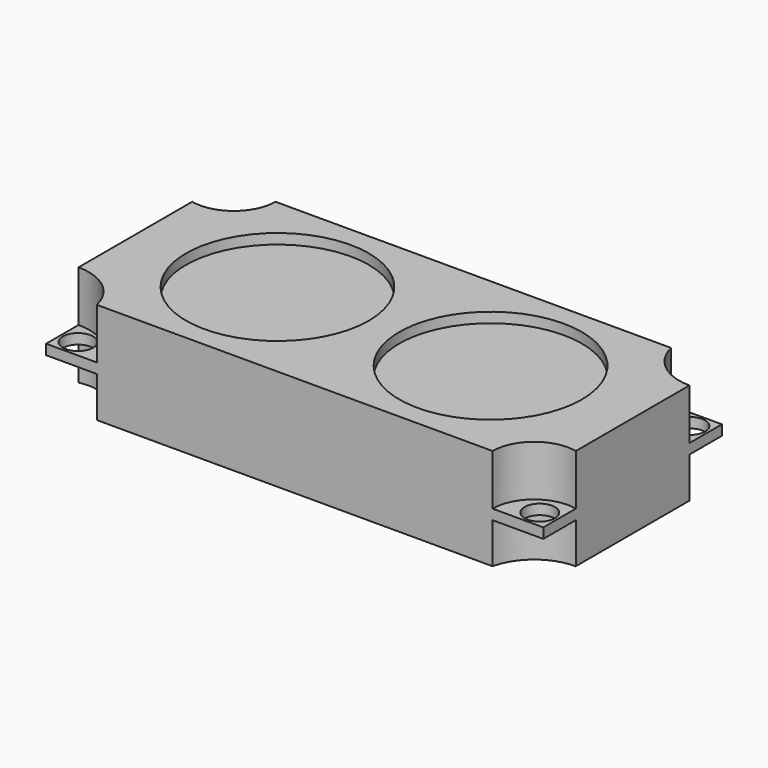
from build123d import *

# Parameters (mm, degrees)
SKETCH007_W     = 98
SKETCH007_H     = 44
PAD002_DEPTH    = 20
POCKET004_DEPTH = 10
POCKET005_DEPTH = 8
SKETCH010_R     = 3
HOLE001_DEPTH   = 25
SKETCH011_R     = 18
POCKET006_DEPTH = 2


with BuildPart() as part:
    # Sketch007 → Pad002 (new body)
    with BuildSketch(Plane.XY):
        with Locations((49, 22)):
            Rectangle(SKETCH007_W, SKETCH007_H)
    extrude(amount=PAD002_DEPTH)

    # Sketch009 (on Face6 of Pad002) → Pocket004 (cut)
    with BuildSketch(Plane.XY.offset(20)):
        with BuildLine():
            Line((0, 44), (0, 36))
            ThreePointArc((0, 36), (6.922499, 37.596876), (10, 44))
            Line((0, 44), (10, 44))
        make_face()
        with BuildLine():
            Line((0, 0), (0, 8))
            ThreePointArc((10, 0), (6.403124, 5.753905), (0, 8))
            Line((0, 0), (10, 0))
        make_face()
        with BuildLine():
            Line((98, 36), (98, 44))
            Line((98, 44), (88, 44))
            ThreePointArc((88, 44), (91.596876, 38.246095), (98, 36))
        make_face()
        with BuildLine():
            Line((88, 0), (98, 0))
            Line((98, 0), (98, 8))
            ThreePointArc((98, 8), (91.077501, 6.403124), (88, 0))
        make_face()
    extrude(amount=-POCKET004_DEPTH, mode=Mode.SUBTRACT)

    # Sketch008 (on Face2 of Pocket004) → Pocket005 (cut)
    with BuildSketch(Plane(origin=(0, 0, 0), x_dir=(1, 0, 0), z_dir=(0, 0, -1))):
        with BuildLine():
            Line((10, -44), (0, -44))
            Line((0, -36), (0, -44))
            ThreePointArc((10, -44), (6.403124, -38.246095), (0, -36))
        make_face()
        with BuildLine():
            Line((0, 0), (0, -8))
            ThreePointArc((0, -8), (6.922499, -6.403124), (10, 0))
            Line((0, 0), (10, 0))
        make_face()
        with BuildLine():
            Line((98, 0), (88, 0))
            ThreePointArc((88, 0), (91.596876, -5.753905), (98, -8))
            Line((98, 0), (98, -8))
        make_face()
        with BuildLine():
            Line((88, -44), (98, -44))
            Line((98, -44), (98, -36))
            ThreePointArc((98, -36), (91.077501, -37.596876), (88, -44))
        make_face()
    extrude(amount=-POCKET005_DEPTH, mode=Mode.SUBTRACT)

    # Sketch010 (on Face21 of Pocket005) → Hole001 (cut)
    with BuildSketch(Plane.XY.offset(10)):
        with Locations((3.5, 3.5)):
            Circle(SKETCH010_R)
        with Locations((3.5, 40.5)):
            Circle(SKETCH010_R)
        with Locations((94.5, 40.5)):
            Circle(SKETCH010_R)
        with Locations((94.5, 3.5)):
            Circle(SKETCH010_R)
    extrude(amount=-HOLE001_DEPTH, mode=Mode.SUBTRACT)

    # Sketch011 (on Face8 of Hole001) → Pocket006 (cut)
    with BuildSketch(Plane.XY.offset(20)):
        with Locations((28, 22)):
            Circle(SKETCH011_R)
        with Locations((70, 22)):
            Circle(SKETCH011_R)
    extrude(amount=-POCKET006_DEPTH, mode=Mode.SUBTRACT)


with BuildPart() as part_1:
    # Body002 placement: moved
    add(part.part.moved(Location((104.941882, -71.476655, 0))))


solid = part_1.part
